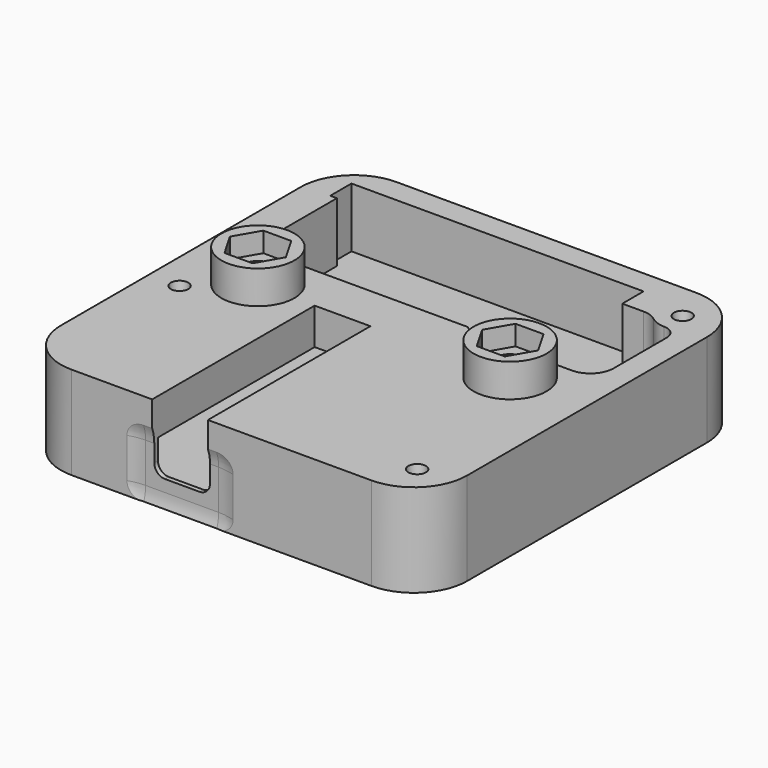
from build123d import *

# Parameters (mm, degrees)
PAD017_DEPTH         = 27.5
POCKET043_DEPTH      = 30.601
POCKET044_DEPTH      = 22.501
SKETCH115_W          = 70
SKETCH115_H          = 14
POCKET041_DEPTH      = 30.601
POCKET041_DEPTH_BACK = 30.601
POCKET048_DEPTH      = 9
SKETCH132_R          = 5.5
PAD019_DEPTH         = 5.5
POCKET049_DEPTH      = 180.22267


with BuildPart() as part:
    # Sketch116 → Pad017 (new body)
    with BuildSketch(Plane.XY.offset(2.5)):
        with BuildLine():
            Line((-22.6, 30.6), (22.6, 30.6))
            ThreePointArc((30.6, 22.6), (28.256854, 28.256854), (22.6, 30.6))
            Line((30.6, 22.6), (30.6, -22.6))
            ThreePointArc((22.6, -30.6), (28.256854, -28.256854), (30.6, -22.6))
            Line((22.6, -30.6), (-22.6, -30.6))
            ThreePointArc((-30.6, -22.6), (-28.256854, -28.256854), (-22.6, -30.6))
            Line((-30.6, -22.6), (-30.6, 22.6))
            ThreePointArc((-22.6, 30.6), (-28.256854, 28.256854), (-30.6, 22.6))
        make_face()
    extrude(amount=-PAD017_DEPTH)

    # Sketch117 → Groove014 (revolve, cut)
    with BuildSketch(Plane.XZ.offset(6)):
        Polygon((-26, 3), (-26, -24.2), (-24.4, -8.2), (-23, -6.8), (-23, 3), align=None)
    revolve(axis=Axis((-26, -6, 3), (0, 0, 1)), mode=Mode.SUBTRACT)

    # Sketch118 → Groove013 (revolve, cut)
    with BuildSketch(Plane.XZ.offset(25)):
        Polygon((25, 3), (25, -24.2), (26.6, -8.2), (28, -6.8), (28, 3), align=None)
    revolve(axis=Axis((25, -25, 3), (0, 0, 1)), mode=Mode.SUBTRACT)

    # Sketch119 → Groove016 (revolve, cut)
    with BuildSketch(Plane.XZ.offset(-25)):
        Polygon((25, 3), (25, -24.2), (26.6, -8.2), (28, -6.8), (28, 3), align=None)
    revolve(axis=Axis((25, 25, 3), (0, 0, 1)), mode=Mode.SUBTRACT)

    # Sketch127 → SubtractiveLoft003 section 0
    with BuildSketch(Plane.XY.offset(-22.5)):
        with BuildLine():
            Line((-22.25, 12), (-13.5, 12))
            ThreePointArc((-13.5, 12), (-6, 9.7), (1.5, 12))
            Line((1.5, 12), (10.25, 12))
            Line((10.25, 12), (10.25, -29.5))
            Line((10.25, -29.5), (-22.25, -29.5))
            Line((-22.25, -29.5), (-22.25, 12))
        make_face()
    # Sketch124 → SubtractiveLoft003 section 1
    with BuildSketch(Plane.XY.offset(-16.5)):
        with BuildLine():
            Line((-22.25, 12), (-13.5, 12))
            ThreePointArc((-13.5, 12), (-6, 11.431818), (1.5, 12))
            Line((1.5, 12), (10.25, 12))
            Line((10.25, 12), (10.25, -29.5))
            Line((10.25, -29.5), (-22.25, -29.5))
            Line((-22.25, -29.5), (-22.25, 12))
        make_face()
    loft(mode=Mode.SUBTRACT)

    # Sketch125 → Pocket043 (cut, through all)
    with BuildSketch(Plane.XZ):
        with BuildLine():
            ThreePointArc((-10.45, -19.6), (-9.981371, -20.731371), (-8.85, -21.2))
            Line((-8.85, -21.2), (-3.65, -21.2))
            ThreePointArc((-3.65, -21.2), (-2.518629, -20.731371), (-2.05, -19.6))
            Line((-2.05, 0), (-2.05, -19.6))
            Line((-10.45, 0), (-2.05, 0))
            Line((-10.45, -19.6), (-10.45, 0))
        make_face()
    extrude(amount=POCKET043_DEPTH, mode=Mode.SUBTRACT)

    # SubtractivePipe008: sweep along a path in Sketch126
    with BuildLine(Plane.YZ) as subtractivepipe008_path:
        ThreePointArc((-32.2, -12.527864), (-30.722774, -14.55051), (-30.2, -17))
        Line((-30.2, -17), (-30.2, -23))
        ThreePointArc((-30.2, -23), (-30.722774, -25.44949), (-32.2, -27.472136))
    # Sketch128 → SubtractivePipe008 (sweep, cut)
    with BuildSketch(Plane.XY.offset(-20)):
        with BuildLine():
            ThreePointArc((-11.75, -30.2), (-14.578427, -30.716685), (-17.041503, -32.2))
            Line((-17.041503, -32.2), (4.541503, -32.2))
            ThreePointArc((4.541503, -32.2), (2.078427, -30.716685), (-0.75, -30.2))
            Line((-11.75, -30.2), (-0.75, -30.2))
        make_face()
    sweep(path=subtractivepipe008_path.line, mode=Mode.SUBTRACT)

    # Sketch129 → Pocket044 (cut, through all)
    with BuildSketch(Plane.XY.offset(-20)):
        with BuildLine():
            ThreePointArc((22.834936, 22.25), (23.854356, 21.692811), (25, 21.5))
            ThreePointArc((27, 19.5), (26.414214, 20.914214), (25, 21.5))
            Line((27, 9.5), (27, 19.5))
            ThreePointArc((23.5, 6), (25.974874, 7.025126), (27, 9.5))
            Line((9.5, 6), (23.5, 6))
            ThreePointArc((6, 9.5), (7.025126, 7.025126), (9.5, 6))
            Line((6, 19.5), (6, 9.5))
            ThreePointArc((9.5, 23), (7.025126, 21.974874), (6, 19.5))
            Line((20.669873, 23), (9.5, 23))
            ThreePointArc((22.834936, 22.25), (21.815517, 22.807189), (20.669873, 23))
        make_face()
    extrude(amount=POCKET044_DEPTH, mode=Mode.SUBTRACT)

    # Sketch115 → Pocket041 (cut, two sides)
    with BuildSketch(Plane.XZ) as pocket041_sk:
        with Locations((0, -4)):
            Rectangle(SKETCH115_W, SKETCH115_H)
    extrude(amount=-POCKET041_DEPTH, mode=Mode.SUBTRACT)
    extrude(pocket041_sk.sketch, amount=POCKET041_DEPTH_BACK, mode=Mode.SUBTRACT)

    # Sketch122 → Pocket048 (cut, symmetric)
    with BuildSketch(Plane.XY.offset(-11)):
        Polygon((-26.5, 27), (17.5, 27), (17.5, 23), (15.5, 23), (15.5, 7), (-25.5, 7), (-25.5, 23), (-26.5, 23), align=None)
    extrude(amount=POCKET048_DEPTH, both=True, mode=Mode.SUBTRACT)

    # Sketch132 → Pad019 (join)
    with BuildSketch(Plane.XY.offset(-6)):
        with Locations((19, 0)):
            Circle(SKETCH132_R)
    pad019 = extrude(amount=-PAD019_DEPTH)

    # Sketch121 → Groove017 (revolve, cut)
    with BuildSketch(Plane.XZ):
        Polygon((19, -1.5), (21.8, -1.5), (21.2, -3.148486), (21.2, -13.5), (19, -13.5), align=None)
    groove017 = revolve(axis=Axis((19, 0, -1.5), (0, 0, 1)), mode=Mode.SUBTRACT)

    # Sketch133 → Pocket049 (cut, through all)
    with BuildSketch(Plane.XY.offset(-9)):
        Polygon((23.214657, 0), (21.107328, 3.65), (16.892672, 3.65), (14.785343, 0), (16.892672, -3.65), (21.107328, -3.65), align=None)
    pocket049 = extrude(amount=POCKET049_DEPTH, mode=Mode.SUBTRACT)

    # Mirrored010: Pad019, Groove017, Pocket049 across YZ
    add(pad019.mirror(Plane.YZ))
    add(groove017.mirror(Plane.YZ), mode=Mode.SUBTRACT)
    add(pocket049.mirror(Plane.YZ), mode=Mode.SUBTRACT)


solid = part.part
